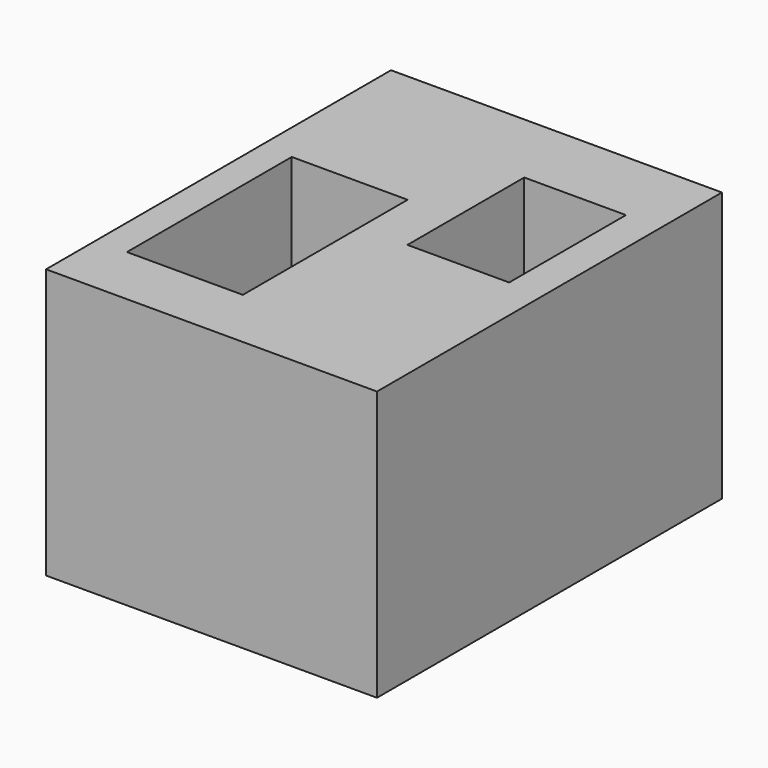
from build123d import *

# Parameters (mm, degrees)
F0_W     = 130.282268
F0_H     = 81.471775
F1_DEPTH = 100
F2_W     = 35.016233
F2_H     = 62.241167
F3_DEPTH = 100
F2_W_2   = 30.737754
F2_H_2   = 44.113887
F4_DEPTH = 100


with BuildPart() as f1:
    # F0 (on Right) → F1 (new body)
    with BuildSketch(Plane.YZ):
        with Locations((-1.179434, -2.358871)):
            Rectangle(F0_W, F0_H)
    extrude(amount=F1_DEPTH)

    # F2 (on face) → F3 (cut)
    with BuildSketch(Plane.XY.offset(38.377017)):
        with Locations((26.910903, -16.402766)):
            Rectangle(F2_W, F2_H)
    extrude(amount=-F3_DEPTH, mode=Mode.SUBTRACT)

    # F2 (on face) → F4 (cut)
    with BuildSketch(Plane.XY.offset(38.377017)):
        with Locations((74.166195, 18.735057)):
            Rectangle(F2_W_2, F2_H_2)
    extrude(amount=-F4_DEPTH, mode=Mode.SUBTRACT)


solid = f1.part
